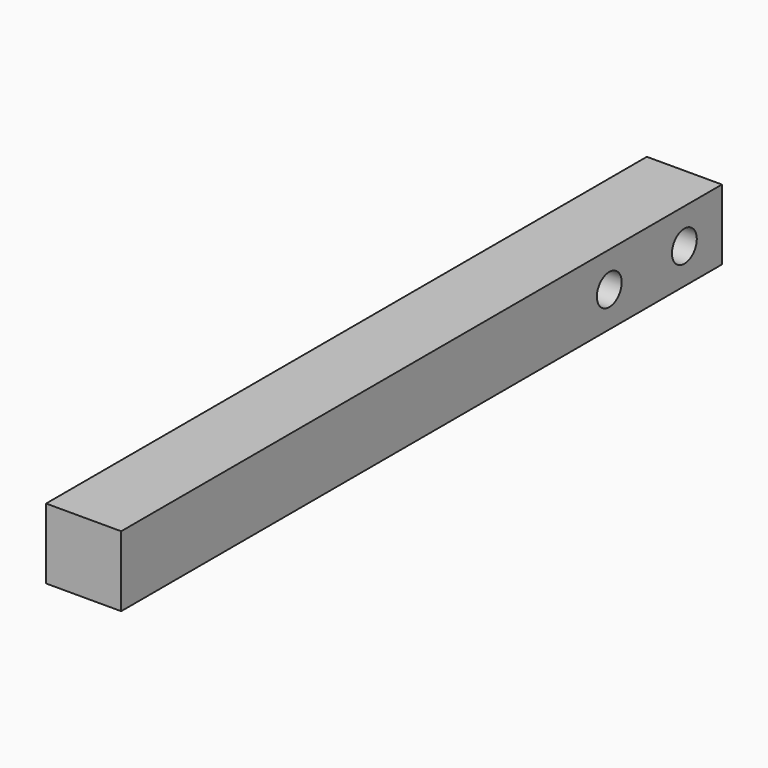
from build123d import *

# Parameters (mm, degrees)
F0_W     = 101.6
F0_H     = 9.525
F1_DEPTH = 10.16
F3_DEPTH = 10.161


with BuildPart() as f1:
    # F0 (on Right) → F1 (new body)
    with BuildSketch(Plane.YZ):
        Rectangle(F0_W, F0_H)
    extrude(amount=F1_DEPTH)

    # F2 (on face) → F3 (cut, through all)
    with BuildSketch(Plane.YZ.offset(10.16)):
        with BuildLine():
            ThreePointArc((42.35, 0), (44.45, -2.1), (46.55, 0))
            Line((46.55, 0), (42.35, 0))
        make_face()
        with BuildLine():
            Line((42.35, 0), (46.55, 0))
            ThreePointArc((46.55, 0), (44.45, 2.1), (42.35, 0))
        make_face()
        with BuildLine():
            ThreePointArc((29.65, 0), (31.75, -2.1), (33.85, 0))
            Line((33.85, 0), (29.65, 0))
        make_face()
        with BuildLine():
            Line((29.65, 0), (33.85, 0))
            ThreePointArc((33.85, 0), (31.75, 2.1), (29.65, 0))
        make_face()
    extrude(amount=-F3_DEPTH, mode=Mode.SUBTRACT)


solid = f1.part
